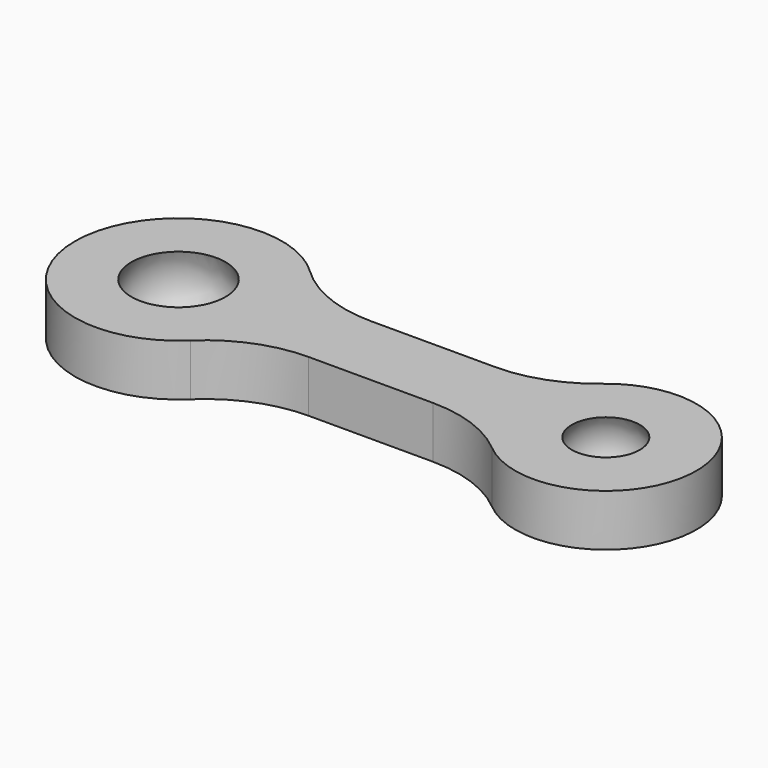
from build123d import *

# Parameters (mm, degrees)
F1_DEPTH = 1
F3_R     = 5


with BuildPart() as f1:
    # F0 (on Top) → F1 (new body, symmetric)
    with BuildSketch(Plane.XY):
        with BuildLine():
            Line((-4.541901, -1.5), (5.087722, -1.5))
            ThreePointArc((5.087722, -1.5), (11.75, 0), (5.087722, 1.5))
            Line((5.087722, 1.5), (-4.541901, 1.5))
            ThreePointArc((-4.541901, 1.5), (-12.25, 0), (-4.541901, -1.5))
        make_face()
        with BuildLine():
            ThreePointArc((-6.175, 0), (-8.25, -2.075), (-10.325, 0))
            Line((-10.325, 0), (-6.175, 0))
        make_face(mode=Mode.SUBTRACT)
        with BuildLine():
            ThreePointArc((9.9, 0), (8.25, -1.65), (6.6, 0))
            Line((6.6, 0), (9.9, 0))
        make_face(mode=Mode.SUBTRACT)
        with BuildLine():
            Line((-6.175, 0), (-10.325, 0))
            ThreePointArc((-10.325, 0), (-8.25, -2.075), (-6.175, 0))
        make_face()
        with BuildLine():
            Line((9.9, 0), (6.6, 0))
            ThreePointArc((6.6, 0), (8.25, -1.65), (9.9, 0))
        make_face()
    extrude(amount=F1_DEPTH, both=True)

    # F0 (on Top) → F2 (revolve, cut)
    with BuildSketch(Plane.XY):
        with BuildLine():
            Line((-6.175, 0), (-10.325, 0))
            ThreePointArc((-10.325, 0), (-8.25, -2.075), (-6.175, 0))
        make_face()
        with BuildLine():
            Line((9.9, 0), (6.6, 0))
            ThreePointArc((6.6, 0), (8.25, -1.65), (9.9, 0))
        make_face()
    revolve(axis=Axis((3.561865, 0, 0), (1, 0, 0)), mode=Mode.SUBTRACT)

    # F3
    f3_edges = [f1.edges().sort_by_distance(p)[0] for p in [
        (-4.541901, 1.5, 0),
        (5.087722, 1.5, 0),
        (-4.541901, -1.5, 0),
        (5.087722, -1.5, 0),
    ]]
    fillet(f3_edges, radius=F3_R)


solid = f1.part
